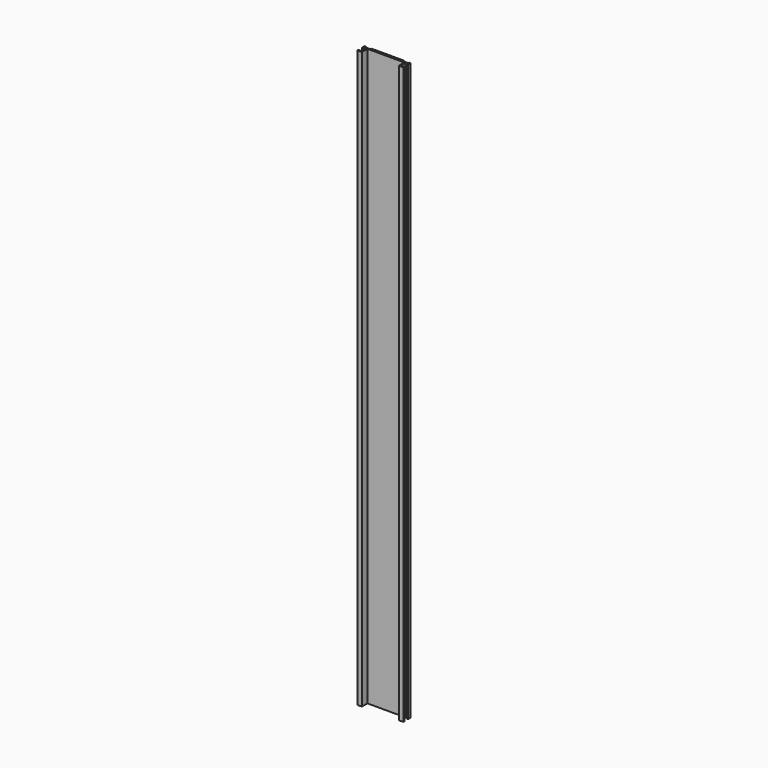
from build123d import *

# Parameters (mm, degrees)
PAD_DEPTH = 1000


with BuildPart() as part:
    # Sketch → Pad (new body)
    with BuildSketch(Plane.XY):
        Polygon((0, 2), (-28, 2), (-28, 0), (-38, 0), (-38, 2), (-40, 2), (-40, -4), (-38, -4), (-38, -2), (-34, -2), (-34, -12), (-40, -12), (-40, -14), (-32, -14), (-32, -2), (0, -2), (32, -2), (32, -14), (40, -14), (40, -12), (34, -12), (34, -2), (38, -2), (38, -4), (40, -4), (40, 2), (38, 2), (38, 0), (28, 0), (28, 2), align=None)
    extrude(amount=PAD_DEPTH)


solid = part.part
